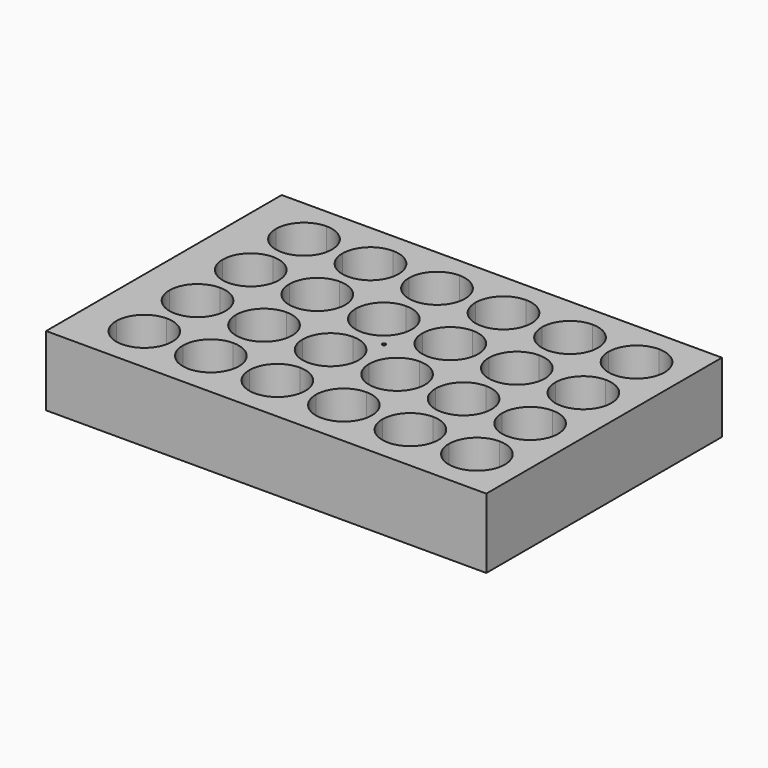
from build123d import *

# Parameters (mm, degrees)
F0_W     = 127.76
F0_H     = 85.47
F1_DEPTH = 20.27
F2_R     = 0.5
F3_DEPTH = 17.4


with BuildPart() as f1:
    # F0 (on Top) → F1 (new body)
    with BuildSketch(Plane.XY):
        Rectangle(F0_W, F0_H)
    extrude(amount=F1_DEPTH)

    # F2 (on face) → F3 (cut)
    with BuildSketch(Plane.XY.offset(20.27)):
        with BuildLine():
            Line((-46.4, 28.965), (-46.4, 37.095))
            ThreePointArc((-46.4, 37.095), (-52.148778131, 34.713778131), (-54.53, 28.965))
            Line((-54.53, 28.965), (-46.4, 28.965))
        make_face()
        with BuildLine():
            ThreePointArc((-38.27, 28.965), (-40.651221869, 34.713778131), (-46.4, 37.095))
            Line((-46.4, 37.095), (-46.4, 28.965))
            Line((-46.4, 28.965), (-38.27, 28.965))
        make_face()
        with BuildLine():
            Line((-46.4, 20.835), (-46.4, 28.965))
            Line((-46.4, 28.965), (-54.53, 28.965))
            ThreePointArc((-54.53, 28.965), (-52.148778131, 23.216221869), (-46.4, 20.835))
        make_face()
        with BuildLine():
            Line((-38.27, 28.965), (-46.4, 28.965))
            Line((-46.4, 28.965), (-46.4, 20.835))
            ThreePointArc((-46.4, 20.835), (-40.651221869, 23.216221869), (-38.27, 28.965))
        make_face()
        with BuildLine():
            Line((-27.096, 28.965), (-27.096, 37.095))
            ThreePointArc((-27.096, 37.095), (-32.844778131, 34.713778131), (-35.226, 28.965))
            Line((-35.226, 28.965), (-27.096, 28.965))
        make_face()
        with BuildLine():
            ThreePointArc((-18.966, 28.965), (-21.347221869, 34.713778131), (-27.096, 37.095))
            Line((-27.096, 37.095), (-27.096, 28.965))
            Line((-27.096, 28.965), (-18.966, 28.965))
        make_face()
        with BuildLine():
            Line((-27.096, 20.835), (-27.096, 28.965))
            Line((-27.096, 28.965), (-35.226, 28.965))
            ThreePointArc((-35.226, 28.965), (-32.844778131, 23.216221869), (-27.096, 20.835))
        make_face()
        with BuildLine():
            Line((-18.966, 28.965), (-27.096, 28.965))
            Line((-27.096, 28.965), (-27.096, 20.835))
            ThreePointArc((-27.096, 20.835), (-21.347221869, 23.216221869), (-18.966, 28.965))
        make_face()
        with BuildLine():
            ThreePointArc((-46.4, 17.791), (-52.148778131, 15.409778131), (-54.53, 9.661))
            Line((-54.53, 9.661), (-46.4, 9.661))
            Line((-46.4, 9.661), (-46.4, 17.791))
        make_face()
        with BuildLine():
            ThreePointArc((-38.27, 9.661), (-40.651221869, 15.409778131), (-46.4, 17.791))
            Line((-46.4, 17.791), (-46.4, 9.661))
            Line((-46.4, 9.661), (-38.27, 9.661))
        make_face()
        with BuildLine():
            Line((-46.4, 9.661), (-54.53, 9.661))
            ThreePointArc((-54.53, 9.661), (-52.148778131, 3.912221869), (-46.4, 1.531))
            Line((-46.4, 1.531), (-46.4, 9.661))
        make_face()
        with BuildLine():
            Line((-38.27, 9.661), (-46.4, 9.661))
            Line((-46.4, 9.661), (-46.4, 1.531))
            ThreePointArc((-46.4, 1.531), (-40.651221869, 3.912221869), (-38.27, 9.661))
        make_face()
        with BuildLine():
            Line((-27.096, 9.661), (-27.096, 17.791))
            ThreePointArc((-27.096, 17.791), (-32.844778131, 15.409778131), (-35.226, 9.661))
            Line((-35.226, 9.661), (-27.096, 9.661))
        make_face()
        with BuildLine():
            ThreePointArc((-18.966, 9.661), (-21.347221869, 15.409778131), (-27.096, 17.791))
            Line((-27.096, 17.791), (-27.096, 9.661))
            Line((-27.096, 9.661), (-18.966, 9.661))
        make_face()
        with BuildLine():
            Line((-27.096, 1.531), (-27.096, 9.661))
            Line((-27.096, 9.661), (-35.226, 9.661))
            ThreePointArc((-35.226, 9.661), (-32.844778131, 3.912221869), (-27.096, 1.531))
        make_face()
        with BuildLine():
            Line((-18.966, 9.661), (-27.096, 9.661))
            Line((-27.096, 9.661), (-27.096, 1.531))
            ThreePointArc((-27.096, 1.531), (-21.347221869, 3.912221869), (-18.966, 9.661))
        make_face()
        with BuildLine():
            Line((-46.4, -1.513), (-46.4, -9.643))
            Line((-46.4, -9.643), (-38.27, -9.643))
            ThreePointArc((-38.27, -9.643), (-40.651221869, -3.894221869), (-46.4, -1.513))
        make_face()
        with BuildLine():
            ThreePointArc((-46.4, -1.513), (-52.148778131, -3.894221869), (-54.53, -9.643))
            Line((-54.53, -9.643), (-46.4, -9.643))
            Line((-46.4, -9.643), (-46.4, -1.513))
        make_face()
        with BuildLine():
            Line((-46.4, -9.643), (-54.53, -9.643))
            ThreePointArc((-54.53, -9.643), (-52.148778131, -15.391778131), (-46.4, -17.773))
            Line((-46.4, -17.773), (-46.4, -9.643))
        make_face()
        with BuildLine():
            Line((-38.27, -9.643), (-46.4, -9.643))
            Line((-46.4, -9.643), (-46.4, -17.773))
            ThreePointArc((-46.4, -17.773), (-40.651221869, -15.391778131), (-38.27, -9.643))
        make_face()
        with BuildLine():
            ThreePointArc((-46.4, -20.817), (-52.148778131, -23.198221869), (-54.53, -28.947))
            Line((-54.53, -28.947), (-46.4, -28.947))
            Line((-46.4, -28.947), (-46.4, -20.817))
        make_face()
        with BuildLine():
            Line((-46.4, -20.817), (-46.4, -28.947))
            Line((-46.4, -28.947), (-38.27, -28.947))
            ThreePointArc((-38.27, -28.947), (-40.651221869, -23.198221869), (-46.4, -20.817))
        make_face()
        with BuildLine():
            Line((-46.4, -28.947), (-54.53, -28.947))
            ThreePointArc((-54.53, -28.947), (-52.148778131, -34.695778131), (-46.4, -37.077))
            Line((-46.4, -37.077), (-46.4, -28.947))
        make_face()
        with BuildLine():
            Line((-46.4, -28.947), (-46.4, -37.077))
            ThreePointArc((-46.4, -37.077), (-40.651221869, -34.695778131), (-38.27, -28.947))
            Line((-38.27, -28.947), (-46.4, -28.947))
        make_face()
        with BuildLine():
            ThreePointArc((-35.226, -28.947), (-32.844778131, -34.695778131), (-27.096, -37.077))
            Line((-27.096, -37.077), (-27.096, -28.947))
            Line((-27.096, -28.947), (-35.226, -28.947))
        make_face()
        with BuildLine():
            Line((-27.096, -28.947), (-27.096, -37.077))
            ThreePointArc((-27.096, -37.077), (-21.347221869, -34.695778131), (-18.966, -28.947))
            Line((-18.966, -28.947), (-27.096, -28.947))
        make_face()
        with BuildLine():
            Line((-27.096, -20.817), (-27.096, -28.947))
            Line((-27.096, -28.947), (-18.966, -28.947))
            ThreePointArc((-18.966, -28.947), (-21.347221869, -23.198221869), (-27.096, -20.817))
        make_face()
        with BuildLine():
            Line((-35.226, -28.947), (-27.096, -28.947))
            Line((-27.096, -28.947), (-27.096, -20.817))
            ThreePointArc((-27.096, -20.817), (-32.844778131, -23.198221869), (-35.226, -28.947))
        make_face()
        with BuildLine():
            Line((-27.096, -17.773), (-27.096, -9.643))
            Line((-27.096, -9.643), (-35.226, -9.643))
            ThreePointArc((-35.226, -9.643), (-32.844778131, -15.391778131), (-27.096, -17.773))
        make_face()
        with BuildLine():
            Line((-18.966, -9.643), (-27.096, -9.643))
            Line((-27.096, -9.643), (-27.096, -17.773))
            ThreePointArc((-27.096, -17.773), (-21.347221869, -15.391778131), (-18.966, -9.643))
        make_face()
        with BuildLine():
            ThreePointArc((-18.966, -9.643), (-21.347221869, -3.894221869), (-27.096, -1.513))
            Line((-27.096, -1.513), (-27.096, -9.643))
            Line((-27.096, -9.643), (-18.966, -9.643))
        make_face()
        with BuildLine():
            Line((-27.096, -9.643), (-27.096, -1.513))
            ThreePointArc((-27.096, -1.513), (-32.844778131, -3.894221869), (-35.226, -9.643))
            Line((-35.226, -9.643), (-27.096, -9.643))
        make_face()
        with BuildLine():
            Line((-7.792, 1.531), (-7.792, 9.661))
            Line((-7.792, 9.661), (-15.922, 9.661))
            ThreePointArc((-15.922, 9.661), (-13.540778131, 3.912221869), (-7.792, 1.531))
        make_face()
        with BuildLine():
            Line((0.338, 9.661), (-7.792, 9.661))
            Line((-7.792, 9.661), (-7.792, 1.531))
            ThreePointArc((-7.792, 1.531), (-2.043221869, 3.912221869), (0.338, 9.661))
        make_face()
        with BuildLine():
            ThreePointArc((0.338, 9.661), (-2.043221869, 15.409778131), (-7.792, 17.791))
            Line((-7.792, 17.791), (-7.792, 9.661))
            Line((-7.792, 9.661), (0.338, 9.661))
        make_face()
        with BuildLine():
            Line((-7.792, 9.661), (-7.792, 17.791))
            ThreePointArc((-7.792, 17.791), (-13.540778131, 15.409778131), (-15.922, 9.661))
            Line((-15.922, 9.661), (-7.792, 9.661))
        make_face()
        with BuildLine():
            Line((-7.792, 20.835), (-7.792, 28.965))
            Line((-7.792, 28.965), (-15.922, 28.965))
            ThreePointArc((-15.922, 28.965), (-13.540778131, 23.216221869), (-7.792, 20.835))
        make_face()
        with BuildLine():
            Line((0.338, 28.965), (-7.792, 28.965))
            Line((-7.792, 28.965), (-7.792, 20.835))
            ThreePointArc((-7.792, 20.835), (-2.043221869, 23.216221869), (0.338, 28.965))
        make_face()
        with BuildLine():
            ThreePointArc((0.338, 28.965), (-2.043221869, 34.713778131), (-7.792, 37.095))
            Line((-7.792, 37.095), (-7.792, 28.965))
            Line((-7.792, 28.965), (0.338, 28.965))
        make_face()
        with BuildLine():
            Line((-7.792, 28.965), (-7.792, 37.095))
            ThreePointArc((-7.792, 37.095), (-13.540778131, 34.713778131), (-15.922, 28.965))
            Line((-15.922, 28.965), (-7.792, 28.965))
        make_face()
        with BuildLine():
            Line((11.512, 28.965), (11.512, 37.095))
            ThreePointArc((11.512, 37.095), (5.763221869, 34.713778131), (3.382, 28.965))
            Line((3.382, 28.965), (11.512, 28.965))
        make_face()
        with BuildLine():
            ThreePointArc((19.642, 28.965), (17.260778131, 34.713778131), (11.512, 37.095))
            Line((11.512, 37.095), (11.512, 28.965))
            Line((11.512, 28.965), (19.642, 28.965))
        make_face()
        with BuildLine():
            Line((19.642, 28.965), (11.512, 28.965))
            Line((11.512, 28.965), (11.512, 20.835))
            ThreePointArc((11.512, 20.835), (17.260778131, 23.216221869), (19.642, 28.965))
        make_face()
        with BuildLine():
            Line((11.512, 20.835), (11.512, 28.965))
            Line((11.512, 28.965), (3.382, 28.965))
            ThreePointArc((3.382, 28.965), (5.763221869, 23.216221869), (11.512, 20.835))
        make_face()
        with BuildLine():
            Line((11.512, 9.661), (11.512, 17.791))
            ThreePointArc((11.512, 17.791), (5.763221869, 15.409778131), (3.382, 9.661))
            Line((3.382, 9.661), (11.512, 9.661))
        make_face()
        with BuildLine():
            ThreePointArc((19.642, 9.661), (17.260778131, 15.409778131), (11.512, 17.791))
            Line((11.512, 17.791), (11.512, 9.661))
            Line((11.512, 9.661), (19.642, 9.661))
        make_face()
        with BuildLine():
            Line((19.642, 9.661), (11.512, 9.661))
            Line((11.512, 9.661), (11.512, 1.531))
            ThreePointArc((11.512, 1.531), (17.260778131, 3.912221869), (19.642, 9.661))
        make_face()
        with BuildLine():
            Line((11.512, 1.531), (11.512, 9.661))
            Line((11.512, 9.661), (3.382, 9.661))
            ThreePointArc((3.382, 9.661), (5.763221869, 3.912221869), (11.512, 1.531))
        make_face()
        with BuildLine():
            Line((11.512, -9.643), (11.512, -1.513))
            ThreePointArc((11.512, -1.513), (5.763221869, -3.894221869), (3.382, -9.643))
            Line((3.382, -9.643), (11.512, -9.643))
        make_face()
        with BuildLine():
            ThreePointArc((19.642, -9.643), (17.260778131, -3.894221869), (11.512, -1.513))
            Line((11.512, -1.513), (11.512, -9.643))
            Line((11.512, -9.643), (19.642, -9.643))
        make_face()
        with BuildLine():
            ThreePointArc((11.512, -17.773), (17.260778131, -15.391778131), (19.642, -9.643))
            Line((19.642, -9.643), (11.512, -9.643))
            Line((11.512, -9.643), (11.512, -17.773))
        make_face()
        with BuildLine():
            Line((11.512, -17.773), (11.512, -9.643))
            Line((11.512, -9.643), (3.382, -9.643))
            ThreePointArc((3.382, -9.643), (5.763221869, -15.391778131), (11.512, -17.773))
        make_face()
        with BuildLine():
            Line((0.338, -9.643), (-7.792, -9.643))
            Line((-7.792, -9.643), (-7.792, -17.773))
            ThreePointArc((-7.792, -17.773), (-2.043221869, -15.391778131), (0.338, -9.643))
        make_face()
        with BuildLine():
            Line((-7.792, -17.773), (-7.792, -9.643))
            Line((-7.792, -9.643), (-15.922, -9.643))
            ThreePointArc((-15.922, -9.643), (-13.540778131, -15.391778131), (-7.792, -17.773))
        make_face()
        with BuildLine():
            Line((-7.792, -9.643), (-7.792, -1.513))
            ThreePointArc((-7.792, -1.513), (-13.540778131, -3.894221869), (-15.922, -9.643))
            Line((-15.922, -9.643), (-7.792, -9.643))
        make_face()
        with BuildLine():
            ThreePointArc((0.338, -9.643), (-2.043221869, -3.894221869), (-7.792, -1.513))
            Line((-7.792, -1.513), (-7.792, -9.643))
            Line((-7.792, -9.643), (0.338, -9.643))
        make_face()
        with BuildLine():
            Line((-7.792, -20.817), (-7.792, -28.947))
            Line((-7.792, -28.947), (0.338, -28.947))
            ThreePointArc((0.338, -28.947), (-2.043221869, -23.198221869), (-7.792, -20.817))
        make_face()
        with BuildLine():
            Line((-15.922, -28.947), (-7.792, -28.947))
            Line((-7.792, -28.947), (-7.792, -20.817))
            ThreePointArc((-7.792, -20.817), (-13.540778131, -23.198221869), (-15.922, -28.947))
        make_face()
        with BuildLine():
            ThreePointArc((-15.922, -28.947), (-13.540778131, -34.695778131), (-7.792, -37.077))
            Line((-7.792, -37.077), (-7.792, -28.947))
            Line((-7.792, -28.947), (-15.922, -28.947))
        make_face()
        with BuildLine():
            Line((-7.792, -28.947), (-7.792, -37.077))
            ThreePointArc((-7.792, -37.077), (-2.043221869, -34.695778131), (0.338, -28.947))
            Line((0.338, -28.947), (-7.792, -28.947))
        make_face()
        with BuildLine():
            Line((3.382, -28.947), (11.512, -28.947))
            Line((11.512, -28.947), (11.512, -20.817))
            ThreePointArc((11.512, -20.817), (5.763221869, -23.198221869), (3.382, -28.947))
        make_face()
        with BuildLine():
            Line((11.512, -20.817), (11.512, -28.947))
            Line((11.512, -28.947), (19.642, -28.947))
            ThreePointArc((19.642, -28.947), (17.260778131, -23.198221869), (11.512, -20.817))
        make_face()
        with BuildLine():
            ThreePointArc((3.382, -28.947), (5.763221869, -34.695778131), (11.512, -37.077))
            Line((11.512, -37.077), (11.512, -28.947))
            Line((11.512, -28.947), (3.382, -28.947))
        make_face()
        with BuildLine():
            Line((11.512, -28.947), (11.512, -37.077))
            ThreePointArc((11.512, -37.077), (17.260778131, -34.695778131), (19.642, -28.947))
            Line((19.642, -28.947), (11.512, -28.947))
        make_face()
        with BuildLine():
            ThreePointArc((22.686, -28.947), (25.067221869, -34.695778131), (30.816, -37.077))
            Line((30.816, -37.077), (30.816, -28.947))
            Line((30.816, -28.947), (22.686, -28.947))
        make_face()
        with BuildLine():
            Line((22.686, -28.947), (30.816, -28.947))
            Line((30.816, -28.947), (30.816, -20.817))
            ThreePointArc((30.816, -20.817), (25.067221869, -23.198221869), (22.686, -28.947))
        make_face()
        with BuildLine():
            Line((30.816, -28.947), (38.946, -28.947))
            ThreePointArc((38.946, -28.947), (36.564778131, -23.198221869), (30.816, -20.817))
            Line((30.816, -20.817), (30.816, -28.947))
        make_face()
        with BuildLine():
            Line((30.816, -28.947), (30.816, -37.077))
            ThreePointArc((30.816, -37.077), (36.564778131, -34.695778131), (38.946, -28.947))
            Line((38.946, -28.947), (30.816, -28.947))
        make_face()
        with BuildLine():
            Line((50.12, -37.077), (50.12, -28.947))
            Line((50.12, -28.947), (41.99, -28.947))
            ThreePointArc((41.99, -28.947), (44.371221869, -34.695778131), (50.12, -37.077))
        make_face()
        with BuildLine():
            ThreePointArc((50.12, -37.077), (55.868778131, -34.695778131), (58.25, -28.947))
            Line((58.25, -28.947), (50.12, -28.947))
            Line((50.12, -28.947), (50.12, -37.077))
        make_face()
        with BuildLine():
            Line((50.12, -28.947), (58.25, -28.947))
            ThreePointArc((58.25, -28.947), (55.868778131, -23.198221869), (50.12, -20.817))
            Line((50.12, -20.817), (50.12, -28.947))
        make_face()
        with BuildLine():
            Line((41.99, -28.947), (50.12, -28.947))
            Line((50.12, -28.947), (50.12, -20.817))
            ThreePointArc((50.12, -20.817), (44.371221869, -23.198221869), (41.99, -28.947))
        make_face()
        with BuildLine():
            Line((50.12, -17.773), (50.12, -9.643))
            Line((50.12, -9.643), (41.99, -9.643))
            ThreePointArc((41.99, -9.643), (44.371221869, -15.391778131), (50.12, -17.773))
        make_face()
        with BuildLine():
            ThreePointArc((50.12, -17.773), (55.868778131, -15.391778131), (58.25, -9.643))
            Line((58.25, -9.643), (50.12, -9.643))
            Line((50.12, -9.643), (50.12, -17.773))
        make_face()
        with BuildLine():
            Line((50.12, -9.643), (58.25, -9.643))
            ThreePointArc((58.25, -9.643), (55.868778131, -3.894221869), (50.12, -1.513))
            Line((50.12, -1.513), (50.12, -9.643))
        make_face()
        with BuildLine():
            Line((41.99, -9.643), (50.12, -9.643))
            Line((50.12, -9.643), (50.12, -1.513))
            ThreePointArc((50.12, -1.513), (44.371221869, -3.894221869), (41.99, -9.643))
        make_face()
        with BuildLine():
            Line((30.816, -9.643), (38.946, -9.643))
            ThreePointArc((38.946, -9.643), (36.564778131, -3.894221869), (30.816, -1.513))
            Line((30.816, -1.513), (30.816, -9.643))
        make_face()
        with BuildLine():
            Line((22.686, -9.643), (30.816, -9.643))
            Line((30.816, -9.643), (30.816, -1.513))
            ThreePointArc((30.816, -1.513), (25.067221869, -3.894221869), (22.686, -9.643))
        make_face()
        with BuildLine():
            Line((30.816, -17.773), (30.816, -9.643))
            Line((30.816, -9.643), (22.686, -9.643))
            ThreePointArc((22.686, -9.643), (25.067221869, -15.391778131), (30.816, -17.773))
        make_face()
        with BuildLine():
            ThreePointArc((30.816, -17.773), (36.564778131, -15.391778131), (38.946, -9.643))
            Line((38.946, -9.643), (30.816, -9.643))
            Line((30.816, -9.643), (30.816, -17.773))
        make_face()
        with BuildLine():
            Line((30.816, 1.531), (30.816, 9.661))
            Line((30.816, 9.661), (22.686, 9.661))
            ThreePointArc((22.686, 9.661), (25.067221869, 3.912221869), (30.816, 1.531))
        make_face()
        with BuildLine():
            ThreePointArc((30.816, 1.531), (36.564778131, 3.912221869), (38.946, 9.661))
            Line((38.946, 9.661), (30.816, 9.661))
            Line((30.816, 9.661), (30.816, 1.531))
        make_face()
        with BuildLine():
            ThreePointArc((38.946, 9.661), (36.564778131, 15.409778131), (30.816, 17.791))
            Line((30.816, 17.791), (30.816, 9.661))
            Line((30.816, 9.661), (38.946, 9.661))
        make_face()
        with BuildLine():
            Line((30.816, 9.661), (30.816, 17.791))
            ThreePointArc((30.816, 17.791), (25.067221869, 15.409778131), (22.686, 9.661))
            Line((22.686, 9.661), (30.816, 9.661))
        make_face()
        with BuildLine():
            Line((41.99, 9.661), (50.12, 9.661))
            Line((50.12, 9.661), (50.12, 17.791))
            ThreePointArc((50.12, 17.791), (44.371221869, 15.409778131), (41.99, 9.661))
        make_face()
        with BuildLine():
            Line((50.12, 9.661), (58.25, 9.661))
            ThreePointArc((58.25, 9.661), (55.868778131, 15.409778131), (50.12, 17.791))
            Line((50.12, 17.791), (50.12, 9.661))
        make_face()
        with BuildLine():
            Line((50.12, 1.531), (50.12, 9.661))
            Line((50.12, 9.661), (41.99, 9.661))
            ThreePointArc((41.99, 9.661), (44.371221869, 3.912221869), (50.12, 1.531))
        make_face()
        with BuildLine():
            ThreePointArc((50.12, 1.531), (55.868778131, 3.912221869), (58.25, 9.661))
            Line((58.25, 9.661), (50.12, 9.661))
            Line((50.12, 9.661), (50.12, 1.531))
        make_face()
        with BuildLine():
            Line((38.946, 28.965), (30.816, 28.965))
            Line((30.816, 28.965), (30.816, 20.835))
            ThreePointArc((30.816, 20.835), (36.564778131, 23.216221869), (38.946, 28.965))
        make_face()
        with BuildLine():
            Line((30.816, 20.835), (30.816, 28.965))
            Line((30.816, 28.965), (22.686, 28.965))
            ThreePointArc((22.686, 28.965), (25.067221869, 23.216221869), (30.816, 20.835))
        make_face()
        with BuildLine():
            Line((30.816, 28.965), (30.816, 37.095))
            ThreePointArc((30.816, 37.095), (25.067221869, 34.713778131), (22.686, 28.965))
            Line((22.686, 28.965), (30.816, 28.965))
        make_face()
        with BuildLine():
            ThreePointArc((38.946, 28.965), (36.564778131, 34.713778131), (30.816, 37.095))
            Line((30.816, 37.095), (30.816, 28.965))
            Line((30.816, 28.965), (38.946, 28.965))
        make_face()
        with BuildLine():
            Line((50.12, 28.965), (50.12, 37.095))
            ThreePointArc((50.12, 37.095), (44.371221869, 34.713778131), (41.99, 28.965))
            Line((41.99, 28.965), (50.12, 28.965))
        make_face()
        with BuildLine():
            ThreePointArc((58.25, 28.965), (55.868778131, 34.713778131), (50.12, 37.095))
            Line((50.12, 37.095), (50.12, 28.965))
            Line((50.12, 28.965), (58.25, 28.965))
        make_face()
        with BuildLine():
            Line((50.12, 20.835), (50.12, 28.965))
            Line((50.12, 28.965), (41.99, 28.965))
            ThreePointArc((41.99, 28.965), (44.371221869, 23.216221869), (50.12, 20.835))
        make_face()
        with BuildLine():
            ThreePointArc((50.12, 20.835), (55.868778131, 23.216221869), (58.25, 28.965))
            Line((58.25, 28.965), (50.12, 28.965))
            Line((50.12, 28.965), (50.12, 20.835))
        make_face()
        Circle(F2_R)
    extrude(amount=-F3_DEPTH, mode=Mode.SUBTRACT)


solid = f1.part
